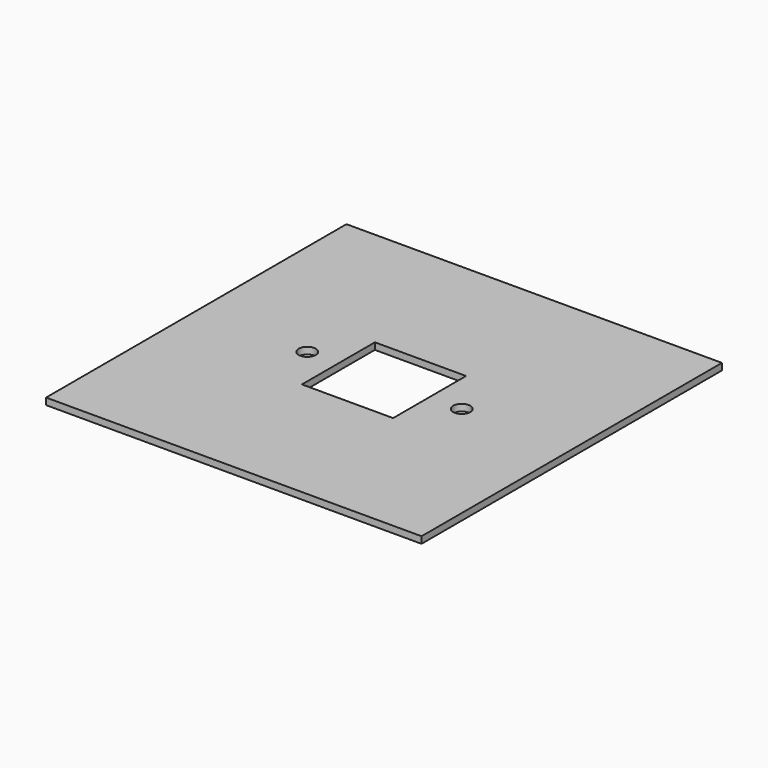
from build123d import *

# Parameters (mm, degrees)
F0_W     = 177.8
F0_H     = 177.8
F0_R     = 4.05
F0_W_2   = 43.18
F0_H_2   = 43.18
F1_DEPTH = 3.175


with BuildPart() as f1:
    # F0 (on Top) → F1 (new body)
    with BuildSketch(Plane.XY):
        Rectangle(F0_W, F0_H)
        with Locations((-36.346402, 0)):
            Circle(F0_R, mode=Mode.SUBTRACT)
        Rectangle(F0_W_2, F0_H_2, mode=Mode.SUBTRACT)
        with Locations((36.805598, 0)):
            Circle(F0_R, mode=Mode.SUBTRACT)
    extrude(amount=F1_DEPTH)


solid = f1.part
